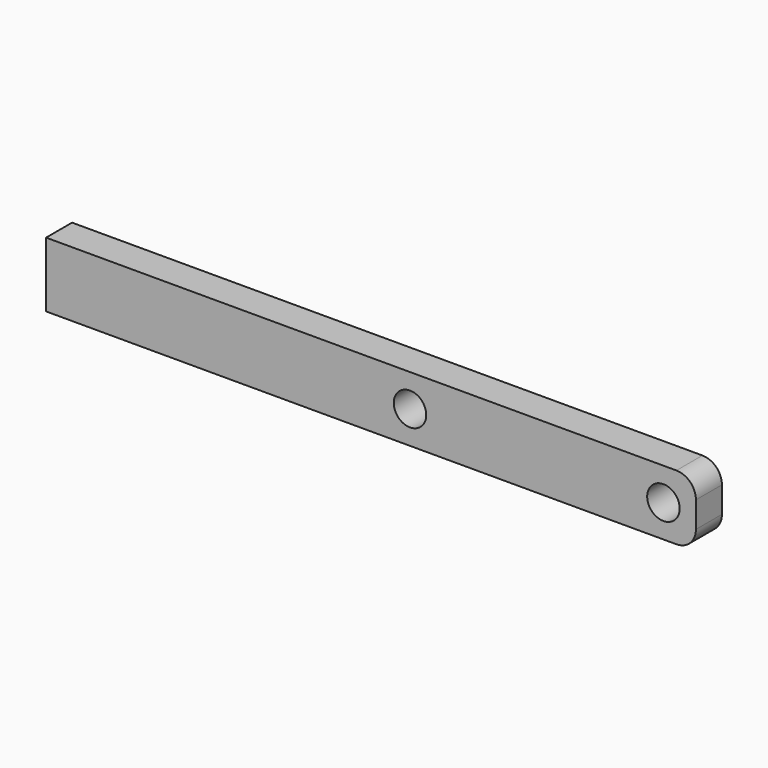
from build123d import *

# Parameters (mm, degrees)
F0_R     = 2.5
F1_DEPTH = 5


with BuildPart() as f1:
    # F0 (on Front) → F1 (new body)
    with BuildSketch(Plane.XZ):
        with BuildLine():
            Line((0, 10), (0, 0))
            Line((0, 0), (97, 0))
            ThreePointArc((97, 0), (99.12132, 0.87868), (100, 3))
            Line((100, 3), (100, 7))
            ThreePointArc((100, 7), (99.12132, 9.12132), (97, 10))
            Line((97, 10), (0, 10))
        make_face()
        with Locations((56, 5)):
            Circle(F0_R, mode=Mode.SUBTRACT)
        with Locations((95, 5)):
            Circle(F0_R, mode=Mode.SUBTRACT)
    extrude(amount=F1_DEPTH)


solid = f1.part
